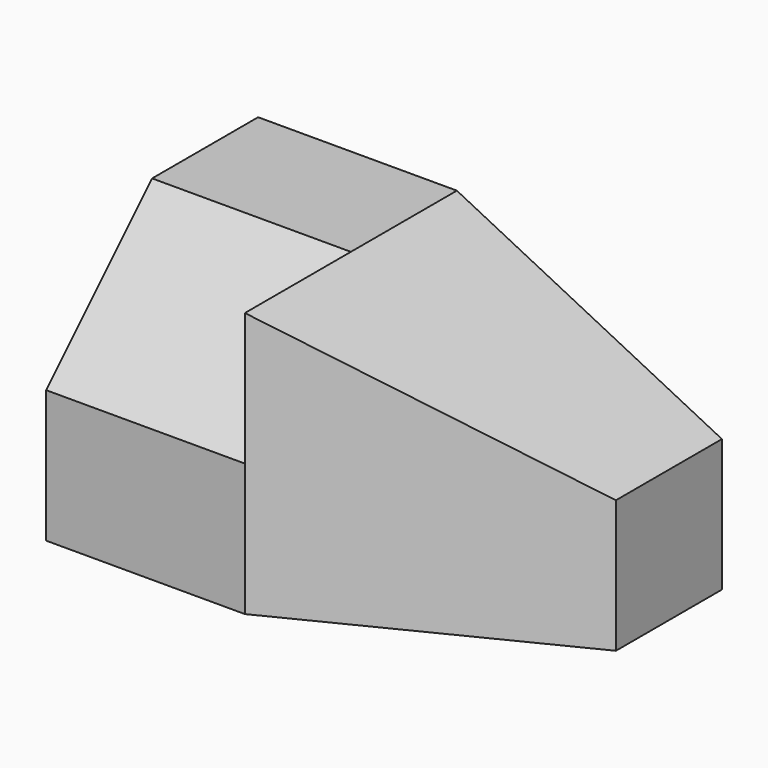
from build123d import *

# Parameters (mm, degrees)
PAD_DEPTH       = 20
SKETCH001_W     = 70
SKETCH001_H     = 20
PAD001_DEPTH    = 20
POCKET_DEPTH    = 20.001
PAD002_DEPTH    = 30
PAD003_DEPTH    = 20
POCKET001_DEPTH = 20.001


with BuildPart() as part:
    # Sketch → Pad (new body)
    with BuildSketch(Plane.XY):
        Polygon((-35, 20), (-35, -20), (-5, -20), (35, 0), (35, 20), align=None)
    extrude(amount=PAD_DEPTH)

    # Sketch001 (on Face7 of Pad) → Pad001 (join)
    with BuildSketch(Plane.XY.offset(20)):
        with Locations((0, 10)):
            Rectangle(SKETCH001_W, SKETCH001_H)
    extrude(amount=PAD001_DEPTH)

    # Sketch002 (on Face5 of Pad001) → Pocket (cut, through all)
    with BuildSketch(Plane.XZ):
        Polygon((35, 40), (-5, 40), (35, 20), align=None)
    extrude(amount=-POCKET_DEPTH, mode=Mode.SUBTRACT)

    # Sketch003 (on Face2 of Pocket) → Pad002 (join)
    with BuildSketch(Plane(origin=(-35, 0, 0), x_dir=(0, -1, 0), z_dir=(-1, 0, 0))):
        Polygon((0, 40), (0, 20), (20, 20), align=None)
    extrude(amount=-PAD002_DEPTH)

    # Sketch004 (on Face8 of Pad002) → Pad003 (join)
    with BuildSketch(Plane.XY.offset(20)):
        Polygon((-5, -20), (-5, 0), (35, 0), align=None)
    extrude(amount=PAD003_DEPTH)

    # Sketch005 (on Face10 of Pad003) → Pocket001 (cut, through all)
    with BuildSketch(Plane(origin=(0, 0, 0), x_dir=(-1, 0, 0), z_dir=(0, 1, 0))):
        Polygon((-35, 20), (-35, 40), (5, 40), align=None)
    extrude(amount=-POCKET001_DEPTH, mode=Mode.SUBTRACT)


solid = part.part
